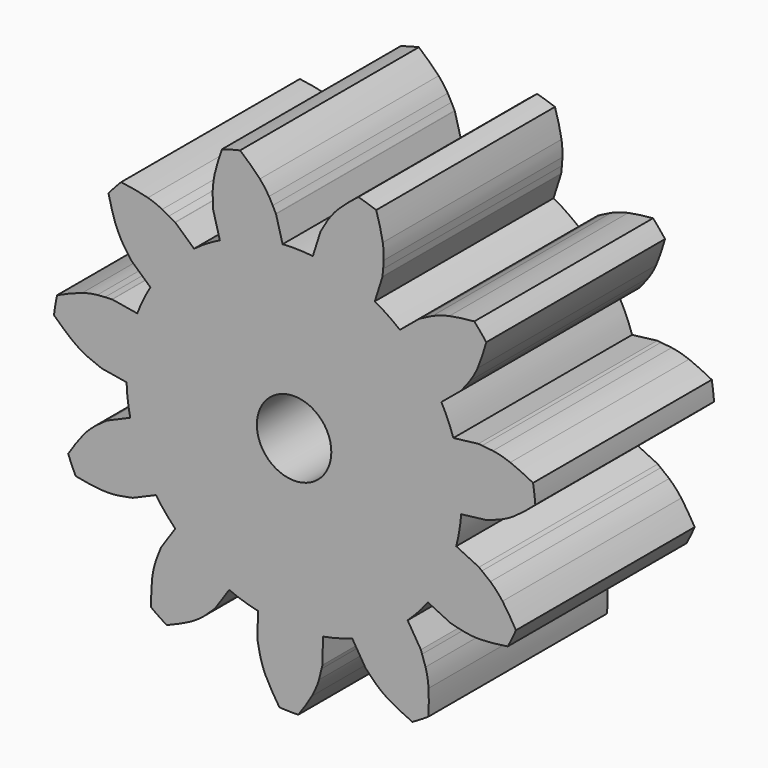
from build123d import *

# Parameters (mm, degrees)
F1_DEPTH = 15
F2_DEPTH = 15
F4_COUNT = 11
F5_R     = 2.5
F6_DEPTH = 15.0010001


with BuildPart() as f1:
    # F0 (on Front) → F1 (new body)
    with BuildSketch(Plane.XZ):
        with BuildLine():
            ThreePointArc((11.25, 0), (7.6776040141, 8.2229493859), (-0.7707816182, 11.2235643045))
            ThreePointArc((-0.7707816182, 11.2235643045), (-2.9330417095, 10.8609284286), (-4.9839041877, 10.0857919395))
            ThreePointArc((-4.9839041877, 10.0857919395), (-5.9369006177, -9.5559254421), (11.25, 0))
        make_face()
    extrude(amount=F1_DEPTH)

    # F0 (on Front) → F2 (join)
    with BuildSketch(Plane.XZ):
        with BuildLine():
            add(Edge.make_bspline(
                [(-2.295287101, 14.5854161839), (-2.3265827904, 14.620983239), (-2.7040258203, 15.0401951314), (-3.1852271454, 15.4580123937), (-3.6255975154, 15.8403769733)],
                knots=[0.6215567537, 0.6215567537, 0.6215567537, 0.6215567537, 0.6536684675, 1, 1, 1, 1], degree=3))
            ThreePointArc((-3.6255975154, 15.8403769733), (-4.2366158027, 15.6880077301), (-4.84127169, 15.5120787912))
            Line((-4.84127169, 15.5120787912), (-2.295287101, 14.5854161839))
        make_face()
        with BuildLine():
            Line((-2.295287101, 14.5854161839), (-4.84127169, 15.5120787912))
            add(Edge.make_bspline(
                [(-5.3296702873, 13.8986179153), (-5.2173186914, 14.4079485495), (-5.0292951907, 14.9600136703), (-4.84127169, 15.5120787912)],
                knots=[0.6536684675, 0.6536684675, 0.6536684675, 0.6536684675, 1, 1, 1, 1], degree=3))
            Line((-5.3296702873, 13.8986179153), (-1.4353044481, 13.2963472028))
            add(Edge.make_bspline(
                [(-1.4353044481, 13.2963472028), (-1.5008217356, 13.4257655695), (-1.5830291371, 13.5828573934), (-1.6780432044, 13.7424522913), (-1.682562222, 13.75)],
                knots=[0.2197396063, 0.2197396063, 0.2197396063, 0.2197396063, 0.3608367644, 0.3678356034, 0.3678356034, 0.3678356034, 0.3678356034], degree=3))
            add(Edge.make_bspline(
                [(-1.682562222, 13.75), (-1.8463851573, 14.0236187107), (-2.0480135248, 14.3043936826), (-2.295287101, 14.5854161839)],
                knots=[0.3678356034, 0.3678356034, 0.3678356034, 0.3678356034, 0.6215567537, 0.6215567537, 0.6215567537, 0.6215567537], degree=3))
        make_face()
        with BuildLine():
            Line((-1.4353044481, 13.2963472028), (-5.3296702873, 13.8986179153))
            add(Edge.make_bspline(
                [(-5.4681232692, 12.7014279877), (-5.4655635869, 13.0678664923), (-5.4246662843, 13.4679665217), (-5.3296702873, 13.8986179153)],
                knots=[0.3608367644, 0.3608367644, 0.3608367644, 0.3608367644, 0.6536684675, 0.6536684675, 0.6536684675, 0.6536684675], degree=3))
            Line((-5.4681232692, 12.7014279877), (-1.2227988631, 12.8806587539))
            add(Edge.make_bspline(
                [(-1.2227988631, 12.8806587539), (-1.2545589712, 12.940024701), (-1.3102404834, 13.0447657471), (-1.3953315378, 13.2173874509), (-1.4353044481, 13.2963472028)],
                knots=[0.0116786154, 0.0116786154, 0.0116786154, 0.0116786154, 0.1336544789, 0.2197396063, 0.2197396063, 0.2197396063, 0.2197396063], degree=3))
        make_face()
        with BuildLine():
            Line((-1.2227988631, 12.8806587539), (-5.4681232692, 12.7014279877))
            add(Edge.make_bspline(
                [(-5.4383745747, 11.9766662645), (-5.4490201355, 12.1531136996), (-5.470109101, 12.4171406784), (-5.4681232692, 12.7014279877)],
                knots=[0.1336544789, 0.1336544789, 0.1336544789, 0.1336544789, 0.3608367644, 0.3608367644, 0.3608367644, 0.3608367644], degree=3))
            add(Edge.make_bspline(
                [(-5.4268149825, 11.7258717335), (-5.4294633133, 11.7993657664), (-5.4321116441, 11.8728597994), (-5.4383745747, 11.9766662645)],
                knots=[0, 0, 0, 0, 0.1336544789, 0.1336544789, 0.1336544789, 0.1336544789], degree=3))
            Line((-5.4268149825, 11.7258717335), (-4.9839041877, 10.0857919395))
            ThreePointArc((-4.9839041877, 10.0857919395), (-2.9330417095, 10.8609284286), (-0.7707816182, 11.2235643045))
            Line((-0.7707816182, 11.2235643045), (-1.213692413, 12.8636440984))
            add(Edge.make_bspline(
                [(-1.213692413, 12.8636440984), (-1.2167251975, 12.869309421), (-1.2197579821, 12.8749747436), (-1.2227988631, 12.8806587539)],
                knots=[0, 0, 0, 0, 0.0116786154, 0.0116786154, 0.0116786154, 0.0116786154], degree=3))
        make_face()
    extrude(amount=F2_DEPTH)

    # F4: F1 ×11 about axis
    f4_axis = Axis((0, -26.6733877361, 0), (0, -1, 0))


with BuildPart() as f1_1:
    add(f1.part)
    for i in range(1, F4_COUNT):
        add(f1.part.rotate(f4_axis, i * 360 / F4_COUNT))

    # F5 (on Front) → F6 (cut, through all)
    with BuildSketch(Plane.XZ):
        Circle(F5_R)
    extrude(amount=F6_DEPTH, mode=Mode.SUBTRACT)


solid = f1_1.part
